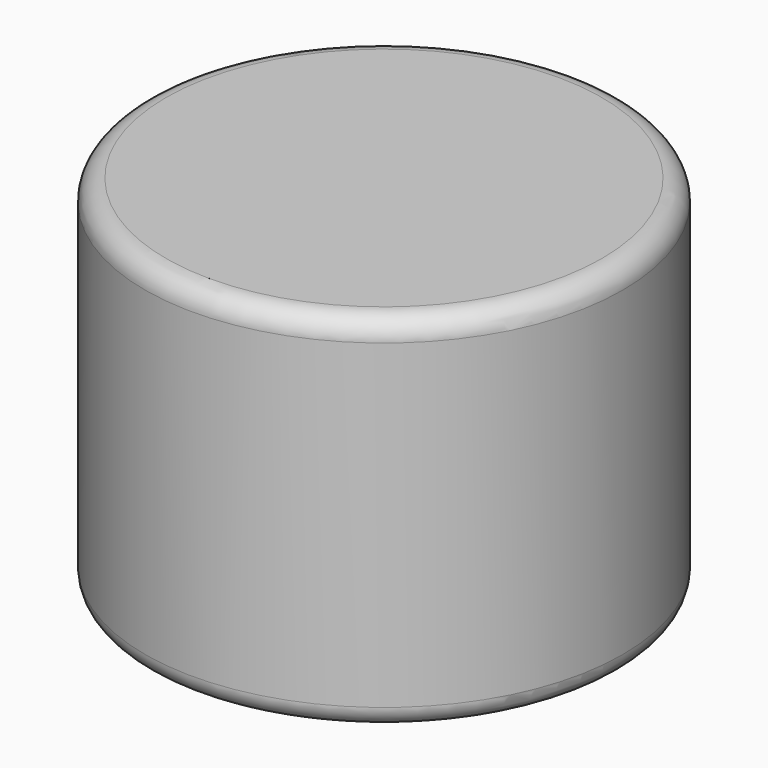
from build123d import *

# Parameters (mm, degrees)
F0_R     = 57.015944
F1_DEPTH = 86.549714
F2_R     = 5


with BuildPart() as f1:
    # F0 (on Top) → F1 (new body)
    with BuildSketch(Plane.XY):
        with Locations((-34.828842, 26.525483)):
            Circle(F0_R)
        with Locations((-34.828842, 26.525483)):
            Circle(F0_R)
    extrude(amount=F1_DEPTH)

    # F2
    f2_edges = [f1.edges().sort_by_distance(p)[0] for p in [
        (-91.844786, 26.525483, 86.549714),
        (-91.844786, 26.525483, 0),
    ]]
    fillet(f2_edges, radius=F2_R)


solid = f1.part
